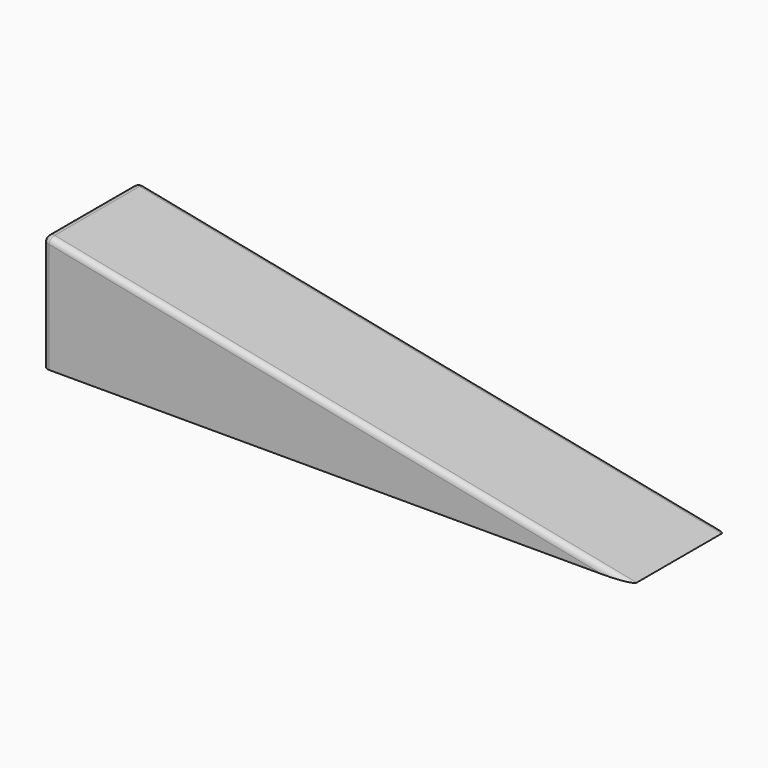
from build123d import *

# Parameters (mm, degrees)
F1_DEPTH = 10
F2_R     = 1


with BuildPart() as f1:
    # F0 (on Front) → F1 (new body, symmetric)
    with BuildSketch(Plane.XZ):
        Polygon((0, 20), (0, 0), (100, 0), align=None)
    extrude(amount=F1_DEPTH, both=True)

    # F2
    f2_edges = [f1.edges().sort_by_distance(p)[0] for p in [
        (50, -10, 10),
        (50, 10, 10),
        (0, 0, 20),
        (0, -10, 10),
        (0, 10, 10),
    ]]
    fillet(f2_edges, radius=F2_R)


solid = f1.part
